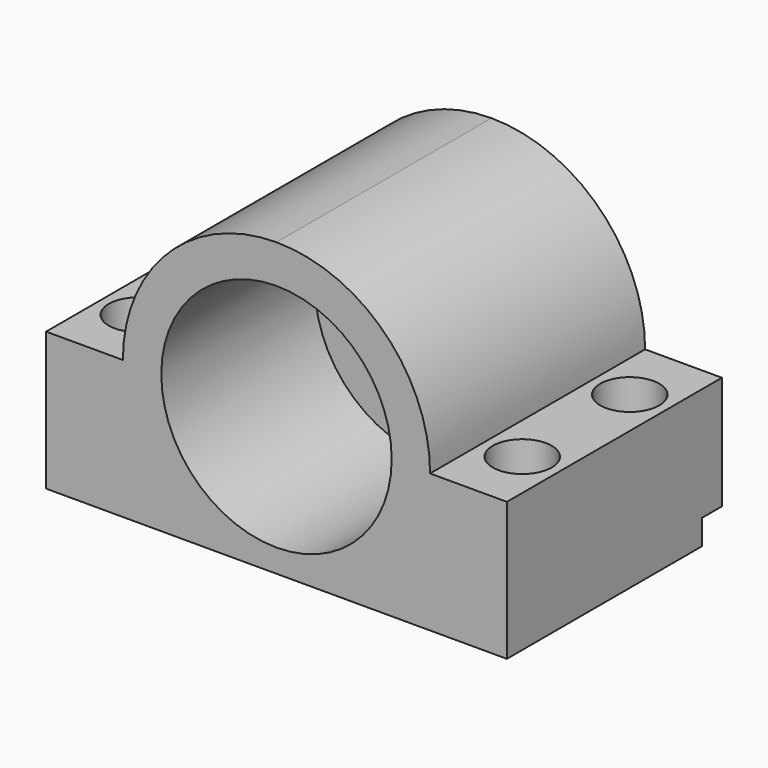
from build123d import *

# Parameters (mm, degrees)
F0_W           = 76.2
F0_H           = 50.8
F1_DEPTH       = 44.45
F2_R           = 19.05
F3_DEPTH       = 31.75
F5_DEPTH       = 62.992
F7_D           = 5.5
F7_DEPTH       = 254
F7_CBORE_D     = 9.75
F7_CBORE_DEPTH = 15
F7_TIP         = 1.6523667023
F8_DEPTH       = 2.54
F9_W           = 4.1275
F9_H           = 4.1275
F10_DEPTH      = 86.36


with BuildPart() as f1:
    # F0 (on Front) → F1 (new body)
    with BuildSketch(Plane.XZ):
        Rectangle(F0_W, F0_H)
    extrude(amount=F1_DEPTH)

    # F2 (on face) → F3 (cut)
    with BuildSketch(Plane.XZ.offset(44.45)):
        Circle(F2_R)
    extrude(amount=-F3_DEPTH, mode=Mode.SUBTRACT)

    # F4 (on face) → F5 (cut)
    with BuildSketch(Plane.XZ.offset(44.45)):
        with BuildLine():
            ThreePointArc((1.5e-09, 25.4), (17.9605122427, 17.9605122416), (25.4, 0))
            Line((25.4, 0), (38.1, 0))
            Line((38.1, 0), (38.1, 25.4))
            Line((38.1, 25.4), (1.5e-09, 25.4))
        make_face()
        with BuildLine():
            ThreePointArc((-25.4, 0), (-17.9605122416, 17.9605122427), (1.5e-09, 25.4))
            Line((1.5e-09, 25.4), (-38.1, 25.4))
            Line((-38.1, 25.4), (-38.1, 0))
            Line((-38.1, 0), (-25.4, 0))
        make_face()
    extrude(amount=-F5_DEPTH, mode=Mode.SUBTRACT)

    # F7
    with Locations(Plane.XY):
        with Locations((-31.75, -11.1125), (-31.75, -33.3375), (31.75, -33.3375), (31.75, -11.1125)):
            CounterBoreHole(F7_D / 2, F7_CBORE_D / 2, F7_CBORE_DEPTH, depth=F7_DEPTH)
            with Locations((0, 0, -(F7_DEPTH + F7_TIP / 2))):  # 118° drill point
                Cone(0, F7_D / 2, F7_TIP, mode=Mode.SUBTRACT)

    # F8 (cut): a face of the model
    f8_faces = [f1.faces().sort_by_distance(p)[0] for p in [
        (0, -22.225, -25.4),
    ]]
    extrude(f8_faces, amount=-F8_DEPTH, mode=Mode.SUBTRACT)

    # F9 (on face) → F10 (cut)
    with BuildSketch(Plane.YZ.offset(38.1)):
        with Locations((-2.06375, -20.79625)):
            Rectangle(F9_W, F9_H)
    extrude(amount=-F10_DEPTH, mode=Mode.SUBTRACT)


solid = f1.part
